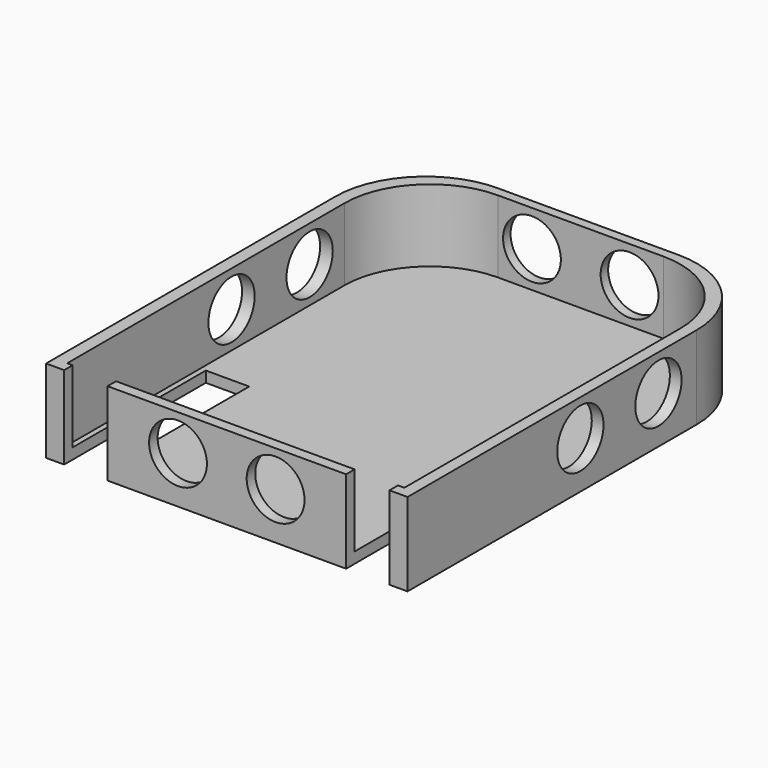
from build123d import *

# Parameters (mm, degrees)
PAD_DEPTH       = 23
POCKET_DEPTH    = 20
SKETCH002_R     = 8
POCKET001_DEPTH = 100.001
SKETCH003_R     = 8
POCKET002_DEPTH = 125.001
SKETCH004_W     = 12
SKETCH004_H     = 50
POCKET003_DEPTH = 23.001


with BuildPart() as part:
    # Sketch → Pad (new body)
    with BuildSketch(Plane.XY):
        with BuildLine():
            Line((-50, 38.45712), (-50, -61.54288))
            Line((-50, -61.54288), (50, -61.54288))
            Line((50, -61.54288), (50, 38.45712))
            ThreePointArc((50, 38.45712), (42.67767, 56.13479), (25, 63.45712))
            Line((25, 63.45712), (-25, 63.45712))
            ThreePointArc((-25, 63.45712), (-42.67767, 56.13479), (-50, 38.45712))
        make_face()
    extrude(amount=PAD_DEPTH)

    # Sketch001 → Pocket (cut)
    with BuildSketch(Plane.XY.offset(23)):
        with BuildLine():
            Line((-46.504223, 37.299377), (-46.504223, -58.589802))
            Line((-46.504223, -58.589802), (46.756358, -58.589802))
            Line((46.756358, -58.589802), (46.756358, 36.931984))
            ThreePointArc((46.756358, 36.931984), (39.747359, 53.853203), (22.82614, 60.862202))
            Line((22.82614, 60.862202), (-22.941398, 60.862202))
            ThreePointArc((-22.941398, 60.862202), (-39.602831, 53.96081), (-46.504223, 37.299377))
        make_face()
    extrude(amount=-POCKET_DEPTH, mode=Mode.SUBTRACT)

    # Sketch002 → Pocket001 (cut, through all)
    with BuildSketch(Plane.YZ.offset(50)):
        with Locations((-1.771652, 13)):
            Circle(SKETCH002_R)
        with Locations((25.228348, 13)):
            Circle(SKETCH002_R)
    extrude(amount=-POCKET001_DEPTH, mode=Mode.SUBTRACT)

    # Sketch003 → Pocket002 (cut, through all)
    with BuildSketch(Plane.XZ.offset(61.54288)):
        with Locations((-13.5, 13)):
            Circle(SKETCH003_R)
        with Locations((13.5, 13)):
            Circle(SKETCH003_R)
    extrude(amount=-POCKET002_DEPTH, mode=Mode.SUBTRACT)

    # Sketch004 → Pocket003 (cut, through all)
    with BuildSketch(Plane(origin=(0, 0, 0), x_dir=(1, 0, 0), z_dir=(0, 0, -1))):
        with Locations((-39, 37.553897)):
            Rectangle(SKETCH004_W, SKETCH004_H)
        with Locations((39, 37.553897)):
            Rectangle(SKETCH004_W, SKETCH004_H)
    extrude(amount=-POCKET003_DEPTH, mode=Mode.SUBTRACT)


solid = part.part
